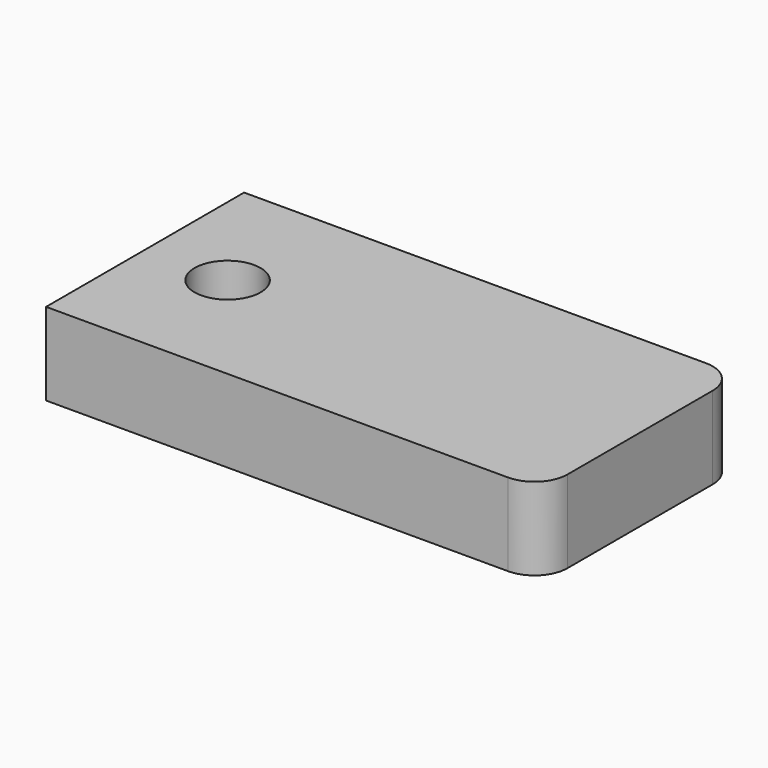
from build123d import *

# Parameters (mm, degrees)
F0_R     = 10
F1_DEPTH = 25


with BuildPart() as f1:
    # F0 (on Top) → F1 (new body)
    with BuildSketch(Plane.XY):
        with BuildLine():
            Line((69.44262, 45.963545), (-70.55738, 45.963545))
            Line((-70.55738, 45.963545), (-70.55738, -29.036455))
            Line((-70.55738, -29.036455), (69.44262, -29.036455))
            ThreePointArc((69.44262, -29.036455), (76.513688, -26.107522), (79.44262, -19.036455))
            Line((79.44262, -19.036455), (79.44262, 35.963545))
            ThreePointArc((79.44262, 35.963545), (76.513688, 43.034613), (69.44262, 45.963545))
        make_face()
        with Locations((-45.55738, 8.463545)):
            Circle(F0_R, mode=Mode.SUBTRACT)
    extrude(amount=F1_DEPTH)


solid = f1.part
